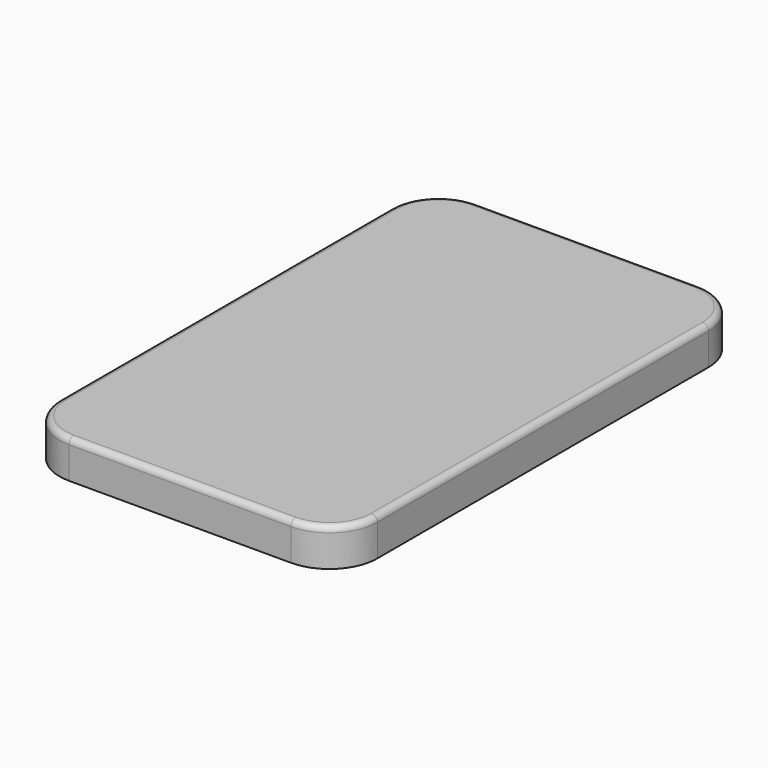
from build123d import *

# Parameters (mm, degrees)
F1_DEPTH = 10
F2_R     = 1.5875
F4_DEPTH = 9


with BuildPart() as f1:
    # F0 (on Top) → F1 (new body)
    with BuildSketch(Plane.XY):
        with BuildLine():
            ThreePointArc((42.0751, 54.7751), (38.355356, 63.755356), (29.3751, 67.4751))
            Line((29.3751, 67.4751), (-29.3751, 67.4751))
            ThreePointArc((-29.3751, 67.4751), (-38.355356, 63.755356), (-42.0751, 54.7751))
            Line((-42.0751, 54.7751), (-42.0751, -54.7751))
            ThreePointArc((-42.0751, -54.7751), (-38.355356, -63.755356), (-29.3751, -67.4751))
            Line((-29.3751, -67.4751), (29.3751, -67.4751))
            ThreePointArc((29.3751, -67.4751), (38.355356, -63.755356), (42.0751, -54.7751))
            Line((42.0751, -54.7751), (42.0751, 54.7751))
        make_face()
    extrude(amount=F1_DEPTH)

    # F2
    f2_edges = [f1.edges().sort_by_distance(p)[0] for p in [
        (42.0751, 0, 10),
        (38.355356, -63.755356, 10),
        (0, -67.4751, 10),
        (-38.355356, -63.755356, 10),
        (-42.0751, 0, 10),
        (-38.355356, 63.755356, 10),
        (0, 67.4751, 10),
        (38.355356, 63.755356, 10),
    ]]
    fillet(f2_edges, radius=F2_R)

    # F3 (on Top) → F4 (cut)
    with BuildSketch(Plane.XY):
        with BuildLine():
            Line((-28.125, -66.225), (28.125, -66.225))
            ThreePointArc((28.125, -66.225), (37.105256, -62.505256), (40.825, -53.525))
            Line((40.825, -53.525), (40.825, 53.525))
            ThreePointArc((40.825, 53.525), (37.105256, 62.505256), (28.125, 66.225))
            Line((28.125, 66.225), (-28.125, 66.225))
            ThreePointArc((-28.125, 66.225), (-37.105256, 62.505256), (-40.825, 53.525))
            Line((-40.825, 53.525), (-40.825, -53.525))
            ThreePointArc((-40.825, -53.525), (-37.105256, -62.505256), (-28.125, -66.225))
        make_face()
    extrude(amount=F4_DEPTH, mode=Mode.SUBTRACT)


solid = f1.part
